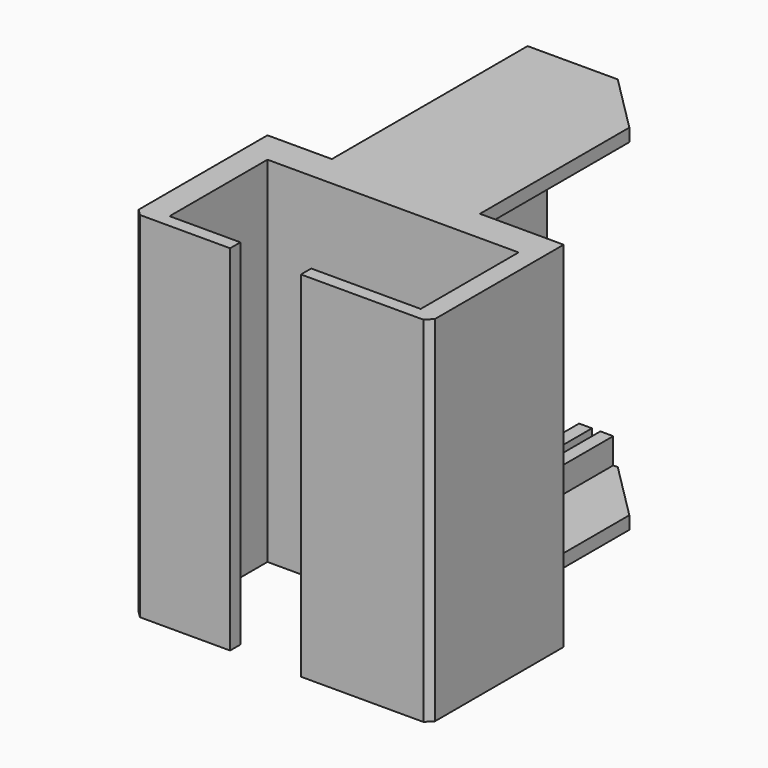
from build123d import *

# Parameters (mm, degrees)
F0_W     = 4
F0_H     = 19
F0_W_2   = 3
F1_DEPTH = 55
F2_W     = 2
F2_H     = 4
F3_DEPTH = 38
F4_SIZE  = 9
F5_SIZE  = 1


with BuildPart() as f1:
    # F0 (on Top) → F1 (new body)
    with BuildSketch(Plane.XY):
        Polygon((-0.840026, 24), (-46.840026, 24), (-46.840026, 19), (-42.840026, 19), (-3.840026, 19), (-0.840026, 19), align=None)
        with Locations((-44.840026, 9.5)):
            Rectangle(F0_W, F0_H)
        with Locations((-2.340026, 9.5)):
            Rectangle(F0_W_2, F0_H)
        Polygon((-42.840026, 0), (-46.840026, 0), (-46.840026, -2), (-31.840026, -2), (-31.840026, 0), align=None)
        Polygon((-0.840026, -2), (-0.840026, 0), (-3.840026, 0), (-20.840026, 0), (-20.840026, -2), align=None)
    extrude(amount=F1_DEPTH)

    # F2 (on face) → F3 (join)
    with BuildSketch(Plane(origin=(0, 24, 0), x_dir=(-1, 0, 0), z_dir=(0, 1, 0))):
        Polygon((36.840026, 55), (33.840026, 55), (33.840026, 53), (33.840026, 2), (33.840026, 0), (36.840026, 0), align=None)
        Polygon((33.840026, 53), (33.840026, 55), (13.840026, 55), (13.840026, 53), (23.540026, 53), (25.540026, 53), (26.840026, 53), (28.840026, 53), align=None)
        Polygon((33.840026, 0), (33.840026, 2), (28.840026, 2), (26.840026, 2), (25.540026, 2), (23.540026, 2), (13.840026, 2), (13.840026, 0), align=None)
        with Locations((27.840026, 51)):
            Rectangle(F2_W, F2_H)
        with Locations((27.840026, 4)):
            Rectangle(F2_W, F2_H)
        with Locations((24.540026, 51)):
            Rectangle(F2_W, F2_H)
        with Locations((24.540026, 4)):
            Rectangle(F2_W, F2_H)
    extrude(amount=F3_DEPTH)

    # F4
    f4_edges = [f1.edges().sort_by_distance(p)[0] for p in [
        (-13.840026, 62, 54),
        (-13.840026, 62, 1),
    ]]
    chamfer(f4_edges, length=F4_SIZE)

    # F5
    f5_edges = [f1.edges().sort_by_distance(p)[0] for p in [
        (-0.840026, -2, 27.5),
        (-46.840026, -2, 27.5),
    ]]
    chamfer(f5_edges, length=F5_SIZE)


solid = f1.part
